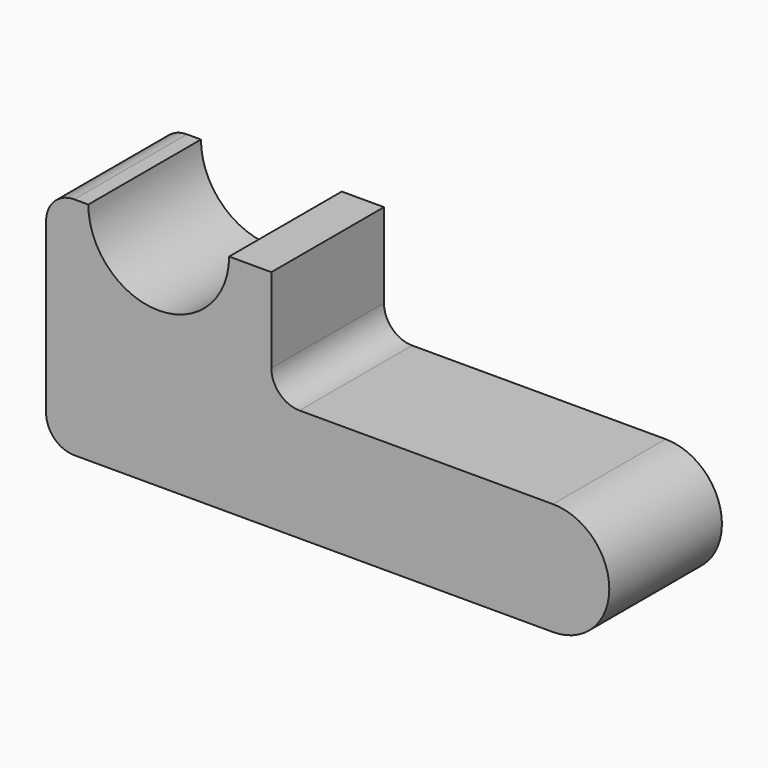
from build123d import *

# Parameters (mm, degrees)
F1_DEPTH = 25


with BuildPart() as f1:
    # F0 (on Front) → F1 (new body)
    with BuildSketch(Plane.XZ):
        with BuildLine():
            Line((-46.907052, 32.831196), (-49.407052, 32.831196))
            ThreePointArc((-49.407052, 32.831196), (-52.942586, 31.36673), (-54.407052, 27.831196))
            Line((-54.407052, 27.831196), (-54.407052, -2.168804))
            ThreePointArc((-54.407052, -2.168804), (-52.942586, -5.704338), (-49.407052, -7.168804))
            Line((-49.407052, -7.168804), (35.592948, -7.168804))
            ThreePointArc((35.592948, -7.168804), (45.592948, 2.831196), (35.592948, 12.831196))
            Line((35.592948, 12.831196), (-9.407052, 12.831196))
            ThreePointArc((-9.407052, 12.831196), (-12.942586, 14.295662), (-14.407052, 17.831196))
            Line((-14.407052, 17.831196), (-14.407052, 32.831196))
            Line((-14.407052, 32.831196), (-21.907052, 32.831196))
            ThreePointArc((-21.907052, 32.831196), (-34.407052, 20.331196), (-46.907052, 32.831196))
        make_face()
    extrude(amount=F1_DEPTH)


solid = f1.part
